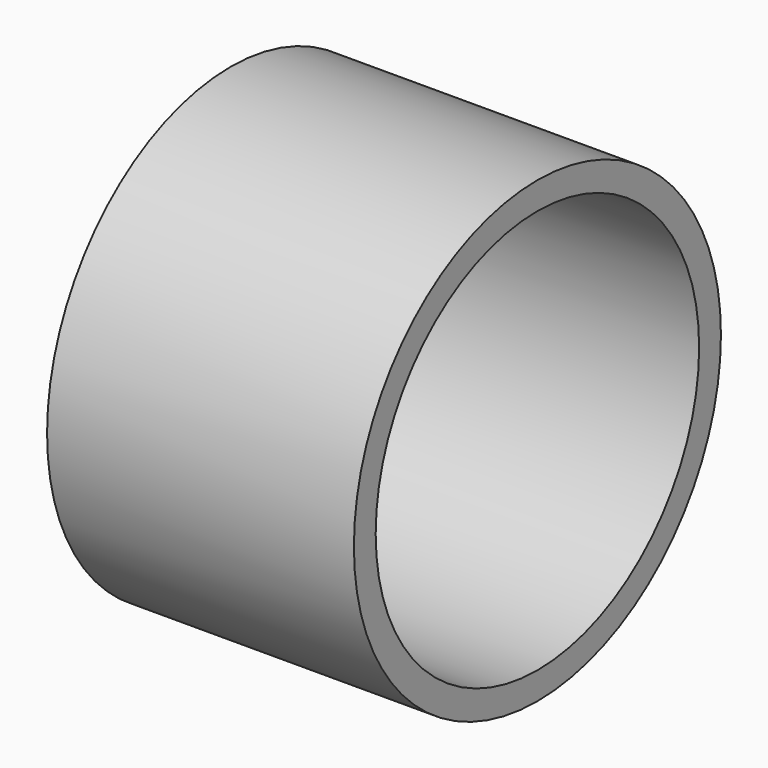
from build123d import *

# Parameters (mm, degrees)
F0_W          = 107
F0_H          = 9.5
F1_ANGLE_BACK = 90
F1_ANGLE      = 180


with BuildPart() as f1:
    # F0 (on Front) → F1 (revolve)
    with BuildSketch(Plane.XZ, mode=Mode.PRIVATE) as f1_sk:
        with Locations((0, 75.25)):
            Rectangle(F0_W, F0_H)
        with Locations((0, -75.25)):
            Rectangle(F0_W, F0_H)
    revolve(f1_sk.sketch.rotate(Axis((100, 0, 0), (1, 0, 0)), -F1_ANGLE_BACK), axis=Axis((100, 0, 0), (1, 0, 0)), revolution_arc=F1_ANGLE)


solid = f1.part
